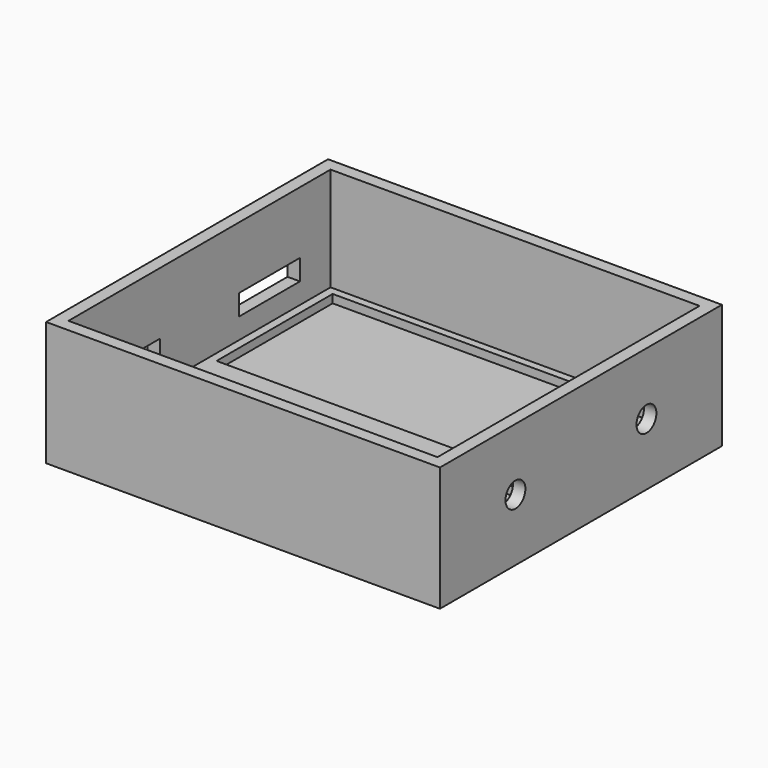
from build123d import *

# Parameters (mm, degrees)
SKETCH_W        = 95
SKETCH_H        = 85
EXTRUDE_DEPTH   = 30
SKETCH002_W     = 89
SKETCH002_H     = 79
POCKET_DEPTH    = 25
SKETCH001_W     = 85
SKETCH001_H     = 35
POCKET001_DEPTH = 27
SKETCH003_R     = 3
HOLE_DEPTH      = 25
HOLE_TIPS_R     = 3
SKETCH004_W     = 18.43
SKETCH004_H     = 5
POCKET002_DEPTH = 3


with BuildPart() as part:
    # Sketch → Extrude (new body)
    with BuildSketch(Plane.XY):
        with Locations((47.5, 42.5)):
            Rectangle(SKETCH_W, SKETCH_H)
    extrude(amount=EXTRUDE_DEPTH)

    # Sketch002 (on Face6 of BaseFeature) → Pocket (cut)
    with BuildSketch(Plane.XY.offset(30)):
        with Locations((47.5, 42.5)):
            Rectangle(SKETCH002_W, SKETCH002_H)
    extrude(amount=-POCKET_DEPTH, mode=Mode.SUBTRACT)

    # Sketch001 (on Face6 of BaseFeature) → Pocket001 (cut)
    with BuildSketch(Plane.XY.offset(30)):
        with Locations((47.5, 62.644853)):
            Rectangle(SKETCH001_W, SKETCH001_H)
        with Locations((47.5, 22.5)):
            Rectangle(SKETCH001_W, SKETCH001_H)
    extrude(amount=-POCKET001_DEPTH, mode=Mode.SUBTRACT)

    # Sketch003 (on Face3 of Pocket001) → Hole (cut)
    with BuildSketch(Plane.YZ.offset(95)):
        with Locations((22.75, 15)):
            Circle(SKETCH003_R)
        with Locations((62.25, 15)):
            Circle(SKETCH003_R)
    extrude(amount=-HOLE_DEPTH, mode=Mode.SUBTRACT)

    # Hole tips → Hole tip 1 section 0
    with BuildSketch(Plane.YZ.offset(70), mode=Mode.PRIVATE) as hole_tip_1_s0:
        with Locations((22.75, 15)):
            Circle(HOLE_TIPS_R)
    loft([hole_tip_1_s0.sketch, Vertex(68.197418, 22.75, 15)], mode=Mode.SUBTRACT)

    # Hole tips → Hole tip 2 section 0
    with BuildSketch(Plane.YZ.offset(70), mode=Mode.PRIVATE) as hole_tip_2_s0:
        with Locations((62.25, 15)):
            Circle(HOLE_TIPS_R)
    loft([hole_tip_2_s0.sketch, Vertex(68.197418, 62.25, 15)], mode=Mode.SUBTRACT)

    # Sketch004 (on Face2 of Hole) → Pocket002 (cut)
    with BuildSketch(Plane(origin=(0, 0, 0), x_dir=(0, -1, 0), z_dir=(-1, 0, 0))):
        with Locations((-63.57, 12.5)):
            Rectangle(SKETCH004_W, SKETCH004_H)
        with Locations((-21.425, 12.5)):
            Rectangle(SKETCH004_W, SKETCH004_H)
    extrude(amount=-POCKET002_DEPTH, mode=Mode.SUBTRACT)


solid = part.part
